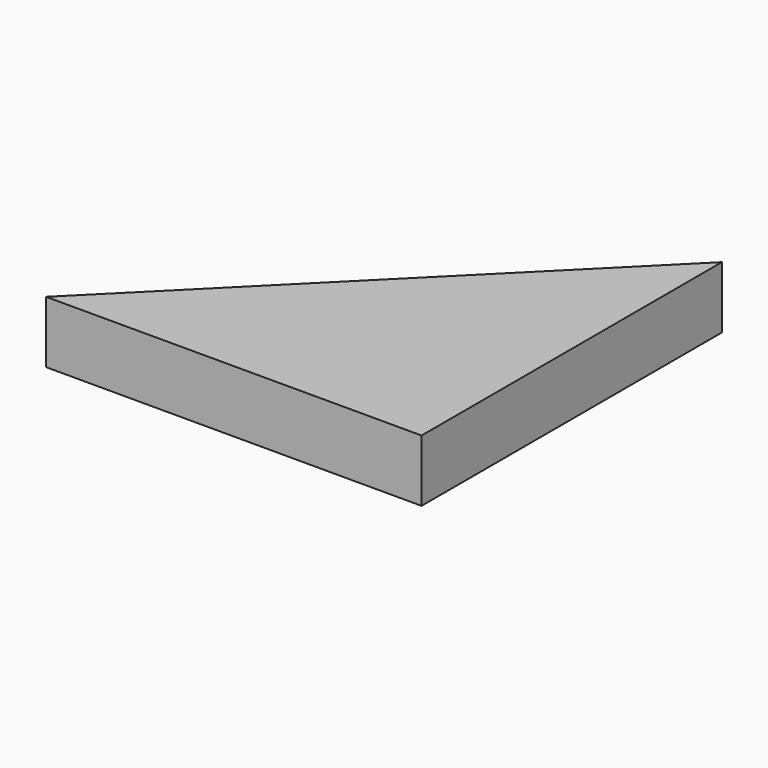
from build123d import *

# Parameters (mm, degrees)
BOX_W               = 313
BOX_H               = 200
BOX_DEPTH           = 37
BOX_PLACEMENT_ANGLE = 45
BOX008_W            = 200
BOX008_H            = 200
BOX008_DEPTH        = 33


with BuildPart() as cube002:
    # Box → Box (new body)
    with BuildSketch(Plane.XY):
        with Locations((156.5, 100)):
            Rectangle(BOX_W, BOX_H)
    extrude(amount=BOX_DEPTH)


with BuildPart() as cube002_1:
    # Box placement: moved
    add(cube002.part.moved(Location((0, 0, -2))).rotate(Axis((0, 0, -2), (0, 0, 1)), BOX_PLACEMENT_ANGLE))


with BuildPart() as long_45a:
    # Box008 → Box008 (new body)
    with BuildSketch(Plane.XY.offset(-1)):
        with Locations((100, 100)):
            Rectangle(BOX008_W, BOX008_H)
    extrude(amount=BOX008_DEPTH)

    # Cut006: cut Cube002
    add(cube002_1.part, mode=Mode.SUBTRACT)


solid = long_45a.part
